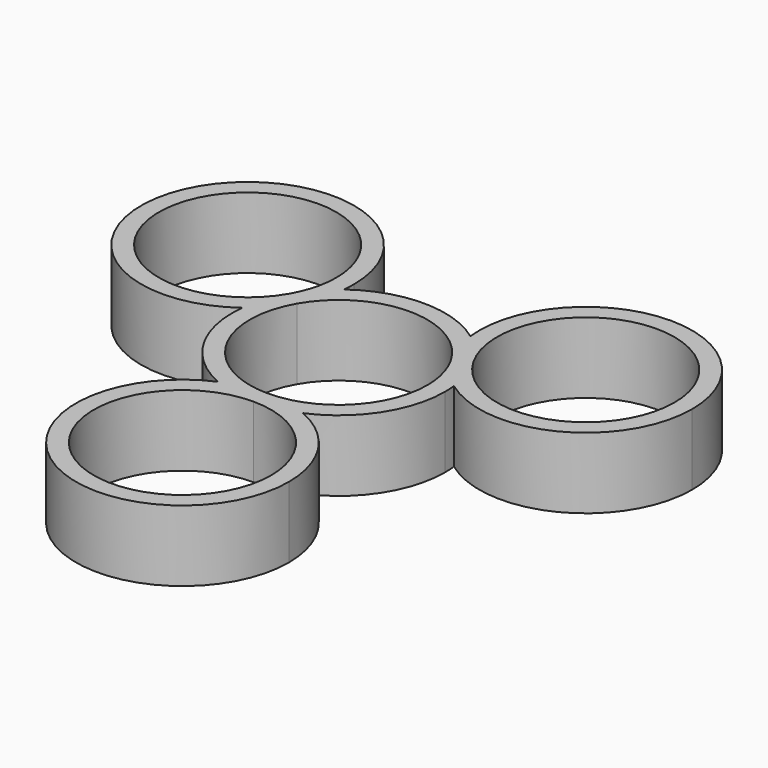
from build123d import *

# Parameters (mm, degrees)
F1_DEPTH = 4


with BuildPart() as f1:
    # F0 (on Top) → F1 (new body)
    with BuildSketch(Plane.XY):
        with BuildLine():
            ThreePointArc((-143.6736853449, -9.5977745645), (-142.7634921482, -8.7686138184), (-142.0417147847, -7.7711186378))
            Line((-142.0417147621, -7.7711185988), (-142.9077401659, -7.2711185988))
            ThreePointArc((-142.9077401838, -7.2711186297), (-143.4107076718, -8.3949437564), (-143.6736853449, -9.5977745645))
        make_face()
        with BuildLine():
            Line((-142.9077401659, -7.2711185988), (-142.0417147621, -7.7711185988))
            ThreePointArc((-142.0417147847, -7.7711186378), (-141.5387472689, -6.6472934795), (-141.2757695832, -5.444462633))
            ThreePointArc((-141.2757695832, -5.444462633), (-142.1859628068, -6.2736234092), (-142.9077401838, -7.2711186297))
        make_face()
        with BuildLine():
            ThreePointArc((-143.6736853449, -9.5977745645), (-143.4107076718, -8.3949437564), (-142.9077401838, -7.2711186297))
            ThreePointArc((-142.9077401838, -7.2711186297), (-142.1859628068, -6.2736234092), (-141.2757695832, -5.444462633))
            ThreePointArc((-141.2757695832, -5.444462633), (-141.2473502785, -5.1083235736), (-141.2378671849, -4.7711185988))
            ThreePointArc((-141.2378671849, -4.7711185988), (-152.594409495, -2.0678882201), (-143.6736853449, -9.5977745645))
        make_face()
        with BuildLine():
            ThreePointArc((-142.2378671849, -4.7711185988), (-142.408238058, -6.0652138415), (-142.9077401838, -7.2711186297))
            ThreePointArc((-142.9077401838, -7.2711186297), (-152.0674963117, -3.477023356), (-142.2378671849, -4.7711185988))
        make_face(mode=Mode.SUBTRACT)
        with BuildLine():
            ThreePointArc((-140.1095035049, -15.7711185988), (-138.9363326146, -15.3974485365), (-137.7115877432, -15.2711185988))
            ThreePointArc((-137.7115877432, -15.2711185988), (-142.0417147509, -12.7711186183), (-142.0417147847, -7.7711186378))
            ThreePointArc((-142.0417147847, -7.7711186378), (-142.7634921482, -8.7686138184), (-143.6736853449, -9.5977745645))
            ThreePointArc((-143.6736853449, -9.5977745645), (-142.9077401659, -13.2711185988), (-140.1095035049, -15.7711185988))
        make_face()
        with BuildLine():
            ThreePointArc((-133.3814606974, -7.7711186454), (-132.8819586048, -8.9770233992), (-132.7115877432, -10.2711185988))
            ThreePointArc((-132.7115877432, -10.2711185988), (-134.1760538373, -13.8066525047), (-137.7115877432, -15.2711185988))
            ThreePointArc((-137.7115877432, -15.2711185988), (-136.4868428718, -15.3974485365), (-135.3136719816, -15.7711185988))
            ThreePointArc((-135.3136719816, -15.7711185988), (-132.692250408, -13.5584051264), (-131.7115877432, -10.2711185988))
            ThreePointArc((-131.7115877432, -10.2711185988), (-131.7210708369, -9.9339136239), (-131.7494901416, -9.5977745645))
            ThreePointArc((-131.7494901416, -9.5977745645), (-132.6596833353, -8.7686138217), (-133.3814606974, -7.7711186454))
        make_face()
        with BuildLine():
            ThreePointArc((-142.0417147847, -7.7711186378), (-137.7115877388, -5.2711185988), (-133.3814606974, -7.7711186454))
            ThreePointArc((-133.3814606974, -7.7711186454), (-133.8844282162, -6.6472934836), (-134.1474059032, -5.444462633))
            ThreePointArc((-134.1474059032, -5.444462633), (-137.7115877432, -4.2711185988), (-141.2757695832, -5.444462633))
            ThreePointArc((-141.2757695832, -5.444462633), (-141.5387472689, -6.6472934795), (-142.0417147847, -7.7711186378))
        make_face()
        with BuildLine():
            ThreePointArc((-135.3136719816, -15.7711185988), (-136.4868428718, -15.3974485365), (-137.7115877432, -15.2711185988))
            Line((-137.7115877432, -15.2711185988), (-137.7115877432, -16.2711185988))
            ThreePointArc((-137.7115877432, -16.2711185988), (-136.4868428718, -16.144788661), (-135.3136719816, -15.7711185988))
        make_face()
        with BuildLine():
            Line((-137.7115877432, -16.2711185988), (-137.7115877432, -15.2711185988))
            ThreePointArc((-137.7115877432, -15.2711185988), (-138.9363326146, -15.3974485365), (-140.1095035049, -15.7711185988))
            ThreePointArc((-140.1095035049, -15.7711185988), (-138.9363326146, -16.144788661), (-137.7115877432, -16.2711185988))
        make_face()
        with BuildLine():
            ThreePointArc((-135.3136719816, -15.7711185988), (-136.4868428718, -16.144788661), (-137.7115877432, -16.2711185988))
            ThreePointArc((-137.7115877432, -16.2711185988), (-138.9363326146, -16.144788661), (-140.1095035049, -15.7711185988))
            ThreePointArc((-140.1095035049, -15.7711185988), (-140.9988742709, -26.290455934), (-131.7115877432, -21.2711185988))
            ThreePointArc((-131.7115877432, -21.2711185988), (-132.692250408, -17.9838320711), (-135.3136719816, -15.7711185988))
        make_face()
        with BuildLine():
            ThreePointArc((-132.7115877432, -21.2711185988), (-141.2471216492, -24.8066525047), (-137.7115877432, -16.2711185988))
            ThreePointArc((-137.7115877432, -16.2711185988), (-134.1760538373, -17.7355846928), (-132.7115877432, -21.2711185988))
        make_face(mode=Mode.SUBTRACT)
        with BuildLine():
            Line((-132.5154353205, -7.2711185988), (-133.3814607243, -7.7711185988))
            ThreePointArc((-133.3814606974, -7.7711186454), (-132.6596833353, -8.7686138217), (-131.7494901416, -9.5977745645))
            ThreePointArc((-131.7494901416, -9.5977745645), (-132.0124678216, -8.394943735), (-132.5154353252, -7.2711185907))
        make_face()
        with BuildLine():
            ThreePointArc((-134.1474059032, -5.444462633), (-133.8844282162, -6.6472934836), (-133.3814606974, -7.7711186454))
            Line((-133.3814607243, -7.7711185988), (-132.5154353205, -7.2711185988))
            ThreePointArc((-132.5154353252, -7.2711185907), (-133.2372126947, -6.2736233924), (-134.1474059032, -5.444462633))
        make_face()
        with BuildLine():
            ThreePointArc((-134.1474059032, -5.444462633), (-133.2372126947, -6.2736233924), (-132.5154353252, -7.2711185907))
            ThreePointArc((-132.5154353252, -7.2711185907), (-132.0124678216, -8.394943735), (-131.7494901416, -9.5977745645))
            ThreePointArc((-131.7494901416, -9.5977745645), (-125.4820779229, -10.1276609089), (-122.1853083016, -4.7711185988))
            ThreePointArc((-122.1853083016, -4.7711185988), (-128.5225132765, 1.2193983076), (-134.1474059032, -5.444462633))
        make_face()
        with BuildLine():
            ThreePointArc((-123.1853083016, -4.7711185988), (-126.8912130806, -9.6007477314), (-132.5154353252, -7.2711185907))
            ThreePointArc((-132.5154353252, -7.2711185907), (-129.4794035226, 0.0585105339), (-123.1853083016, -4.7711185988))
        make_face(mode=Mode.SUBTRACT)
    extrude(amount=F1_DEPTH)


solid = f1.part
